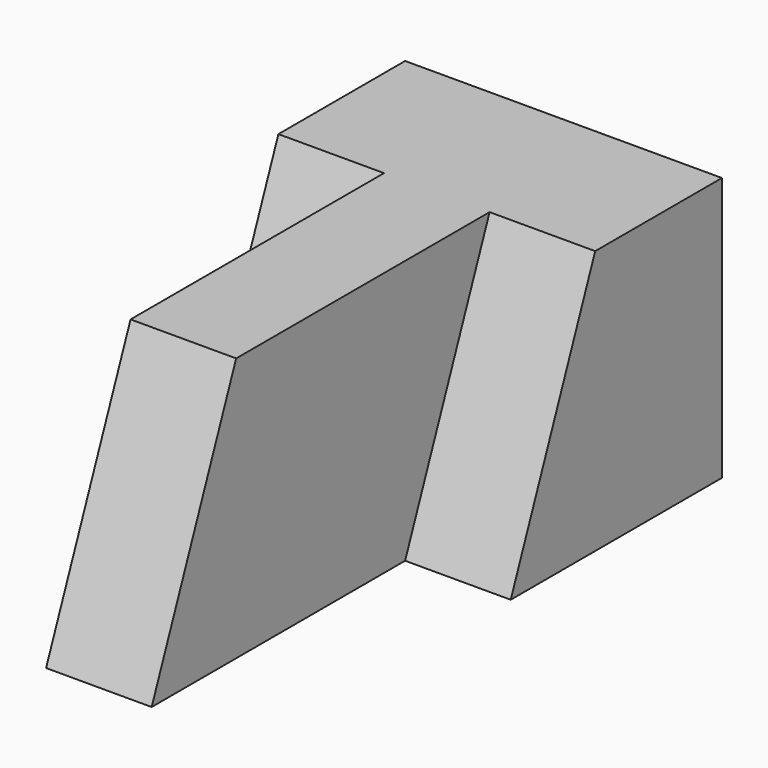
from build123d import *

# Parameters (mm, degrees)
F1_DEPTH = 31.75
F3_DEPTH = 25.4
F5_DEPTH = 12.7
F7_DEPTH = 12.7


with BuildPart() as f1:
    # F0 (on Top) → F1 (new body)
    with BuildSketch(Plane.XY):
        Polygon((0, 38.1), (0, 0), (12.7, 0), (12.7, 38.1), (25.4, 38.1), (25.4, 69.85), (-12.7, 69.85), (-12.7, 38.1), align=None)
    extrude(amount=F1_DEPTH)

    # F2 (on face) → F3 (cut)
    with BuildSketch(Plane(origin=(0, 0, 0), x_dir=(0, -1, 0), z_dir=(-1, 0, 0))):
        Polygon((0, 0), (0, 31.75), (-12.7, 31.75), align=None)
    extrude(amount=-F3_DEPTH, mode=Mode.SUBTRACT)

    # F4 (on face) → F5 (cut)
    with BuildSketch(Plane(origin=(-12.7, 0, 0), x_dir=(0, -1, 0), z_dir=(-1, 0, 0))):
        Polygon((-38.1, 0), (-38.1, 31.75), (-50.8, 31.75), align=None)
    extrude(amount=-F5_DEPTH, mode=Mode.SUBTRACT)

    # F6 (on face) → F7 (cut)
    with BuildSketch(Plane.YZ.offset(25.4)):
        Polygon((50.8, 31.75), (38.1, 31.75), (38.1, 0), align=None)
    extrude(amount=-F7_DEPTH, mode=Mode.SUBTRACT)


solid = f1.part
